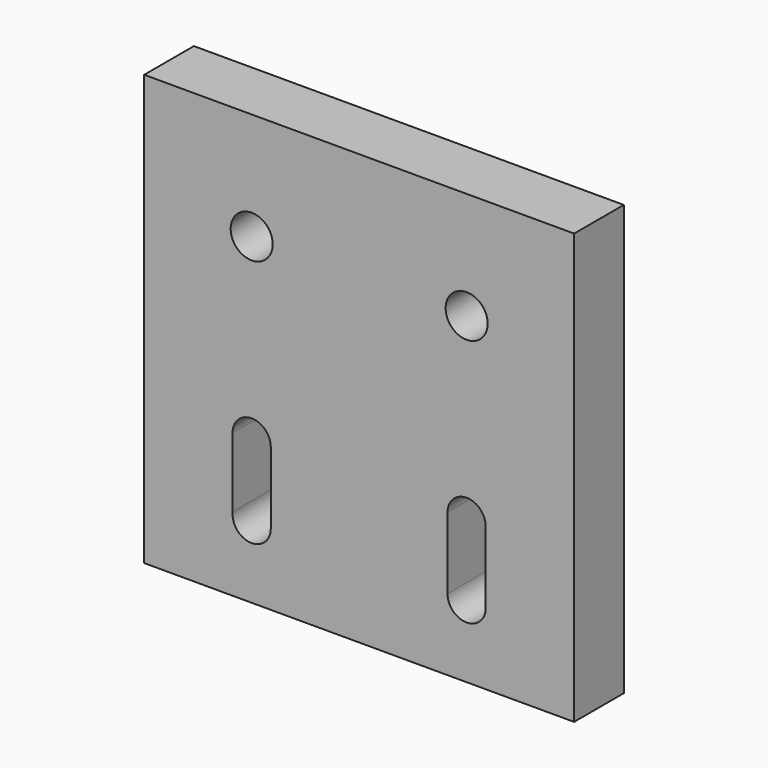
from build123d import *

# Parameters (mm, degrees)
F0_W     = 90
F0_H     = 90
F1_DEPTH = 13
F3_DEPTH = 25
F4_D     = 8.8
F4_DEPTH = 18.25
F4_TIP   = 2.6437867237


with BuildPart() as f1:
    # F0 (on Front) → F1 (new body)
    with BuildSketch(Plane.XZ):
        with Locations((45, -45)):
            Rectangle(F0_W, F0_H)
    extrude(amount=F1_DEPTH)

    # F2 (on face) → F3 (cut)
    with BuildSketch(Plane.XZ.offset(13)):
        with BuildLine():
            Line((71.4366715828, -59.2910452421), (71.4366715828, -60.7089547579))
            ThreePointArc((71.4366715828, -60.7089547579), (71.5, -60), (71.4366715828, -59.2910452421))
        make_face()
        with BuildLine():
            Line((71.4366715828, -74.2910452421), (71.4366715828, -60.7089547579))
            Line((71.4366715828, -60.7089547579), (71.4366715828, -59.2910452421))
            ThreePointArc((71.4366715828, -59.2910452421), (67.1441112051, -56.0158635609), (63.5, -60))
            Line((63.5, -60), (63.5, -75))
            ThreePointArc((63.5, -75), (67.8558887949, -78.9841364391), (71.4366715828, -74.2910452421))
        make_face()
        with BuildLine():
            Line((26.5, -75), (26.5, -60))
            ThreePointArc((26.5, -60), (22.4956317773, -56.0000023852), (18.5000095407, -60.0087364402))
            Line((18.5000095407, -60.0087364402), (18.5316552492, -74.4977650565))
            ThreePointArc((18.5316552492, -74.4977650565), (22.2483842248, -78.9920783436), (26.5, -75))
        make_face()
    extrude(amount=-F3_DEPTH, mode=Mode.SUBTRACT)

    # F4
    with Locations(Plane.XZ.offset(13)):
        with Locations((22.5, -22.5), (67.5, -22.5)):
            Hole(F4_D / 2, depth=F4_DEPTH)
            with Locations((0, 0, -(F4_DEPTH + F4_TIP / 2))):  # 118° drill point
                Cone(0, F4_D / 2, F4_TIP, mode=Mode.SUBTRACT)


solid = f1.part
